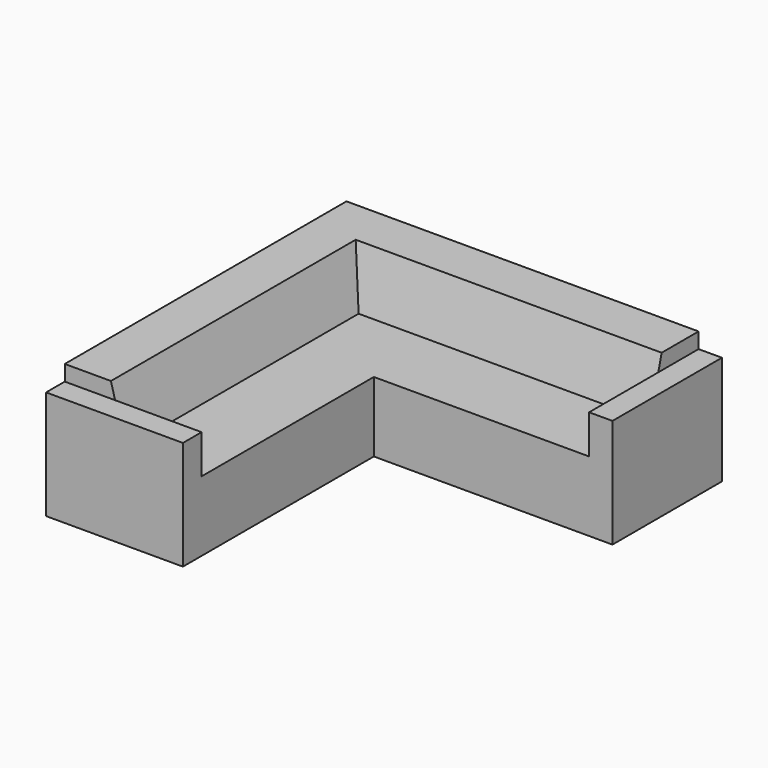
from build123d import *

# Parameters (mm, degrees)
F1_DEPTH = 450
F2_W     = 879.475
F2_H     = 150
F2_W_2   = 150
F2_H_2   = 879.475
F3_DEPTH = 250
F5_DEPTH = 2263


with BuildPart() as f1:
    # F0 (on Top) → F1 (new body)
    with BuildSketch(Plane.XY):
        Polygon((0, 2413), (0, 0), (879.475, 0), (879.475, 1533.525), (2413, 1533.525), (2413, 2413), align=None)
    extrude(amount=F1_DEPTH)

    # F2 (on face) → F3 (join)
    with BuildSketch(Plane.XY.offset(450)):
        with Locations((439.7375, 75)):
            Rectangle(F2_W, F2_H)
        with Locations((2338, 1973.2625)):
            Rectangle(F2_W_2, F2_H_2)
    extrude(amount=F3_DEPTH)

    # F4 (on face) → F5 (join, through all)
    with BuildSketch(Plane(origin=(0, 150, 0), x_dir=(-1, 0, 0), z_dir=(0, 1, 0))):
        Polygon((-390.525, 450), (0, 450), (0, 800), (-296.7427826491, 800), align=None)
    extrude(amount=F5_DEPTH)

    # F6 (on face) → F7 (join, up to the next surface of F1)
    with BuildSketch(Plane(origin=(2263, 0, 0), x_dir=(0, -1, 0), z_dir=(-1, 0, 0))):
        Polygon((-2413, 800), (-2413, 450), (-2022.475, 450), (-2116.2572173509, 800), align=None)
    extrude(until=Until.NEXT)


solid = f1.part
